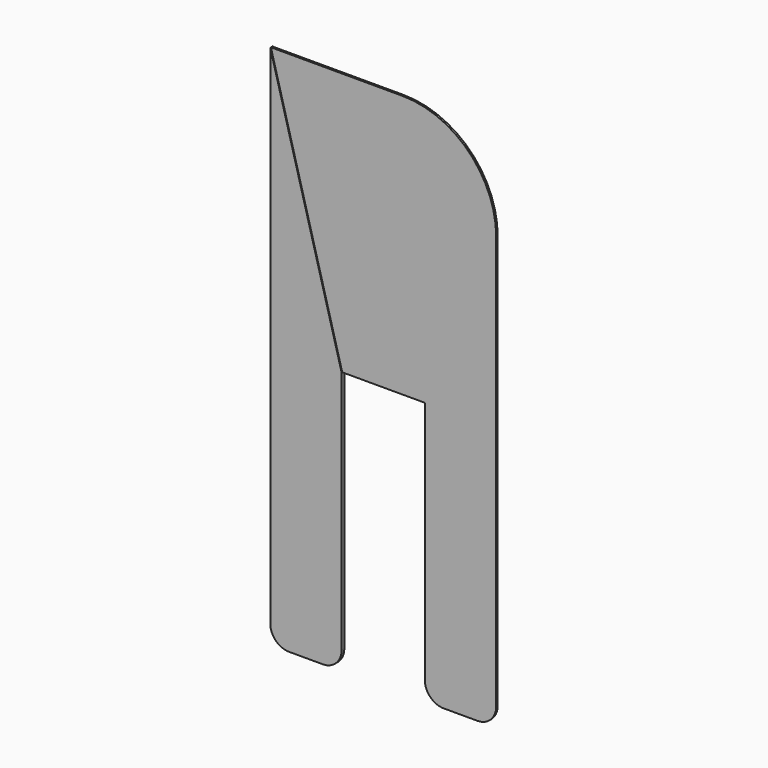
from build123d import *

# Parameters (mm, degrees)
F0_W     = 60
F0_H     = 140
F1_DEPTH = 0.5
F2_W     = 22
F2_H     = 70
F3_DEPTH = 0.5
F5_DEPTH = 0.2
F7_DEPTH = 0.2
F8_R     = 25
F9_R     = 5


with BuildPart() as f1:
    # F0 (on Front) → F1 (new body)
    with BuildSketch(Plane.XZ):
        Rectangle(F0_W, F0_H)
    extrude(amount=F1_DEPTH)

    # F2 (on face) → F3 (cut, through all)
    with BuildSketch(Plane.XZ.offset(0.5)):
        with Locations((0, -35)):
            Rectangle(F2_W, F2_H)
    extrude(amount=-F3_DEPTH, mode=Mode.SUBTRACT)

    # F4 (on face) → F5 (join)
    with BuildSketch(Plane.XZ.offset(0.5)):
        Polygon((-30, 70), (-30, -70), (-11, -70), (-11, 0), align=None)
    extrude(amount=F5_DEPTH)

    # F6 (on face) → F7 (join)
    with BuildSketch(Plane(origin=(0, 0, 0), x_dir=(-1, 0, 0), z_dir=(0, 1, 0))):
        Polygon((11, 0), (11, -70), (30, -70), (30, 70), align=None)
    extrude(amount=F7_DEPTH)

    # F8
    f8_edges = [f1.edges().sort_by_distance(p)[0] for p in [
        (30, -0.25, 70),
    ]]
    fillet(f8_edges, radius=F8_R)

    # F9
    f9_edges = [f1.edges().sort_by_distance(p)[0] for p in [
        (-30, -0.25, -70),
        (-11, -0.25, -70),
        (11, -0.25, -70),
        (30, -0.25, -70),
    ]]
    fillet(f9_edges, radius=F9_R)


solid = f1.part
